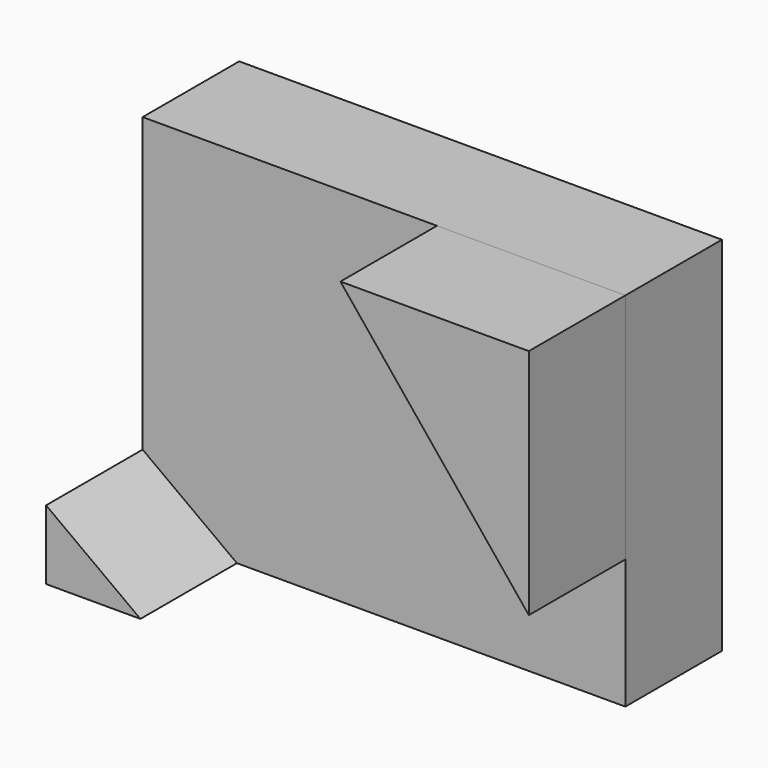
from build123d import *

# Parameters (mm, degrees)
F1_DEPTH = 50.8
F2_DEPTH = 25.4


with BuildPart() as f1:
    # F0 (on Front) → F1 (new body)
    with BuildSketch(Plane.XZ):
        Polygon((50.490484, 36.073038), (10.837989, 36.073038), (50.490484, -12.844932), align=None)
        Polygon((-31.256251, -40.126962), (-51.109516, -25.535107), (-51.109516, -40.126962), align=None)
    extrude(amount=F1_DEPTH)


with BuildPart() as f2:
    # F0 (on Front) → F2 (new body)
    with BuildSketch(Plane.XZ):
        Polygon((10.837989, 36.073038), (-51.109516, 36.073038), (-51.109516, -25.535107), (-31.256251, -40.126962), (50.490484, -40.126962), (50.490484, -12.844932), align=None)
        Polygon((50.490484, 36.073038), (10.837989, 36.073038), (50.490484, -12.844932), align=None)
        Polygon((-31.256251, -40.126962), (-51.109516, -25.535107), (-51.109516, -40.126962), align=None)
    extrude(amount=F2_DEPTH)


solid = Compound([f1.part, f2.part])
